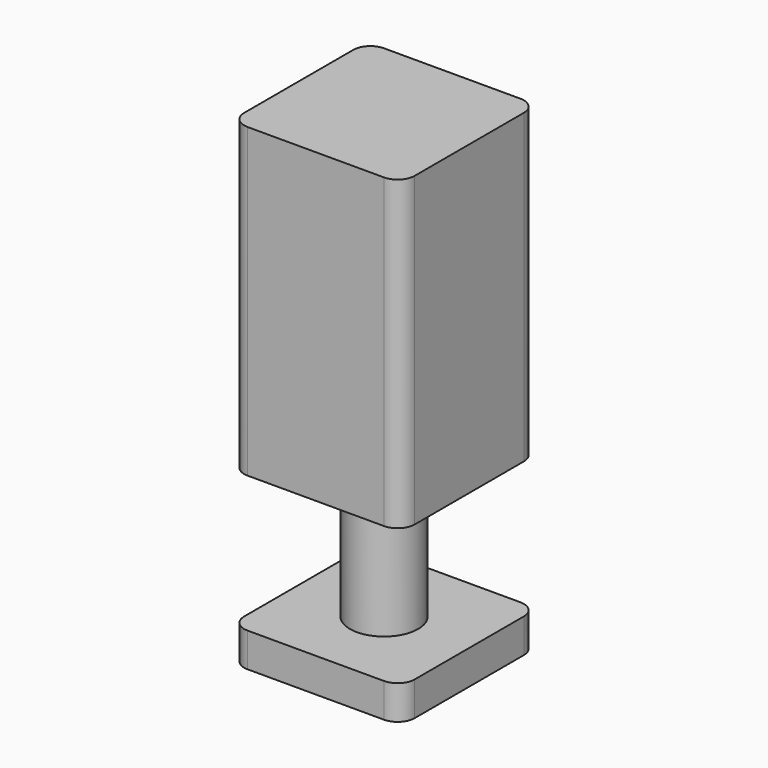
from build123d import *

# Parameters (mm, degrees)
F0_W     = 127
F0_H     = 127
F0_R     = 25.4
F1_DEPTH = 25.4
F2_DEPTH = 355.6
F3_W     = 127
F3_H     = 127
F3_R     = 25.4
F4_DEPTH = 228.6
F5_R     = 12.7


with BuildPart() as f1:
    # F0 (on Top) → F1 (new body)
    with BuildSketch(Plane.XY):
        Rectangle(F0_W, F0_H)
        Circle(F0_R, mode=Mode.SUBTRACT)
    extrude(amount=F1_DEPTH)

    # F0 (on Top) → F2 (join)
    with BuildSketch(Plane.XY):
        Circle(F0_R)
    extrude(amount=F2_DEPTH)

    # F3 (on face) → F4 (join)
    with BuildSketch(Plane.XY.offset(355.6)):
        Rectangle(F3_W, F3_H)
        Circle(F3_R)
    extrude(amount=-F4_DEPTH)

    # F5
    f5_edges = [f1.edges().sort_by_distance(p)[0] for p in [
        (63.5, -63.5, 241.3),
        (63.5, 63.5, 241.3),
        (-63.5, -63.5, 241.3),
        (63.5, -63.5, 12.7),
        (63.5, 63.5, 12.7),
        (-63.5, -63.5, 12.7),
        (-63.5, 63.5, 241.3),
        (-63.5, 63.5, 12.7),
    ]]
    fillet(f5_edges, radius=F5_R)


solid = f1.part
